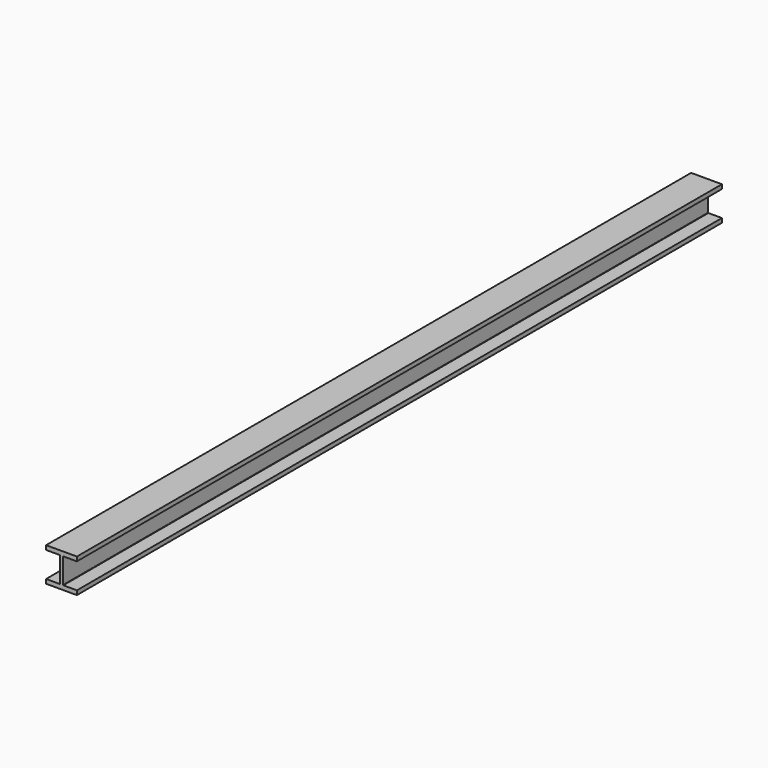
from build123d import *

# Parameters (mm, degrees)
F1_DEPTH = 4819.65


with BuildPart() as f1:
    # F0 (on Front) → F1 (new body)
    with BuildSketch(Plane.XZ):
        with BuildLine():
            Line((92.075, -101.6), (92.075, -76.2))
            Line((92.075, -76.2), (12.065, -76.2))
            ThreePointArc((12.065, -76.2), (10.268949, -75.456051), (9.525, -73.66))
            Line((9.525, -73.66), (9.525, 73.66))
            ThreePointArc((9.525, 73.66), (10.268949, 75.456051), (12.065, 76.2))
            Line((12.065, 76.2), (92.075, 76.2))
            Line((92.075, 76.2), (92.075, 101.6))
            Line((92.075, 101.6), (-92.075, 101.6))
            Line((-92.075, 101.6), (-92.075, 76.2))
            Line((-92.075, 76.2), (-12.065, 76.2))
            ThreePointArc((-12.065, 76.2), (-10.268949, 75.456051), (-9.525, 73.66))
            Line((-9.525, 73.66), (-9.525, -73.66))
            ThreePointArc((-9.525, -73.66), (-10.268949, -75.456051), (-12.065, -76.2))
            Line((-12.065, -76.2), (-92.075, -76.2))
            Line((-92.075, -76.2), (-92.075, -101.6))
            Line((-92.075, -101.6), (92.075, -101.6))
        make_face()
    extrude(amount=F1_DEPTH)


solid = f1.part
